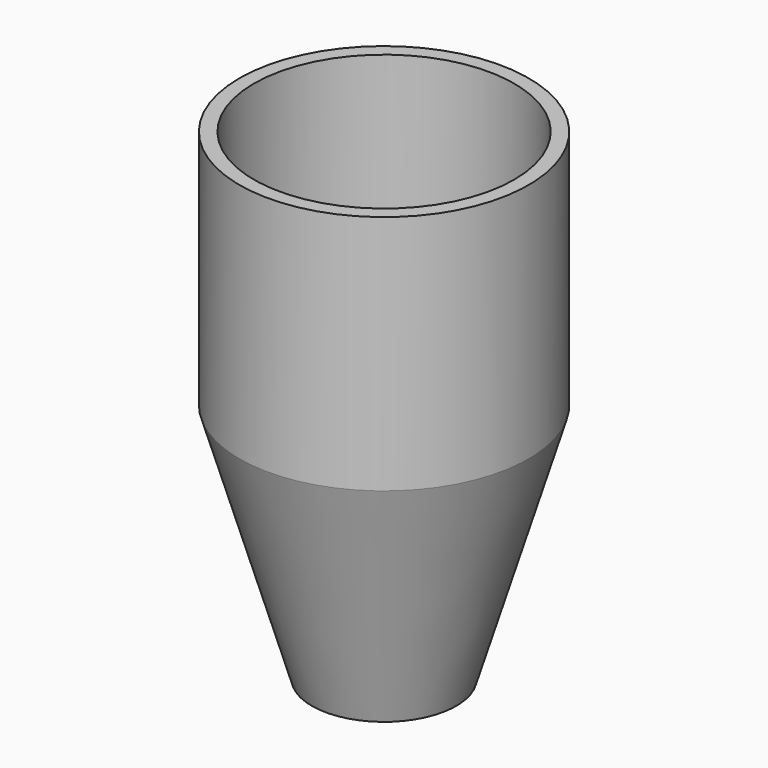
from build123d import *

# Parameters (mm, degrees)
F2_T = -3


with BuildPart() as f1:
    # F0 (on Front) → F1 (revolve)
    with BuildSketch(Plane.XZ):
        Polygon((0, 0), (0, 100), (-30, 100), (-30, 50), (-15, 0), align=None)
    revolve(axis=Axis((0, 0, 50), (0, 0, -1)))

    # F2
    f2_openings = [f1.faces().sort_by_distance(p)[0] for p in [
        (0, 0, 100),
        (0, 0, 0),
    ]]
    offset(amount=F2_T, openings=f2_openings)


solid = f1.part
